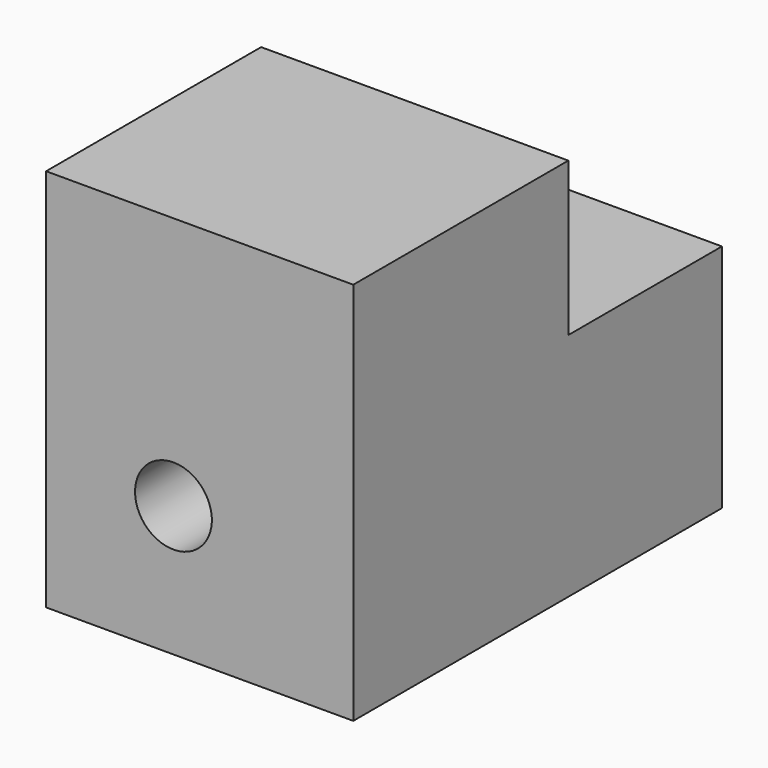
from build123d import *

# Parameters (mm, degrees)
F0_W     = 101.6
F0_H     = 152.4
F1_DEPTH = 127
F3_D     = 25.4
F4_W     = 63.5
F4_H     = 50.8
F5_DEPTH = 101.6


with BuildPart() as f1:
    # F0 (on Top) → F1 (new body)
    with BuildSketch(Plane.XY):
        with Locations((8.675549, 38.719538)):
            Rectangle(F0_W, F0_H)
    extrude(amount=F1_DEPTH)

    # F3 (through all)
    with Locations(Plane.XZ.offset(37.480462)):
        with Locations((0, 43.242622)):
            Hole(F3_D / 2)

    # F4 (on face) → F5 (cut, through all)
    with BuildSketch(Plane.YZ.offset(59.475549)):
        with Locations((83.169538, 101.6)):
            Rectangle(F4_W, F4_H)
    extrude(amount=-F5_DEPTH, mode=Mode.SUBTRACT)


solid = f1.part
